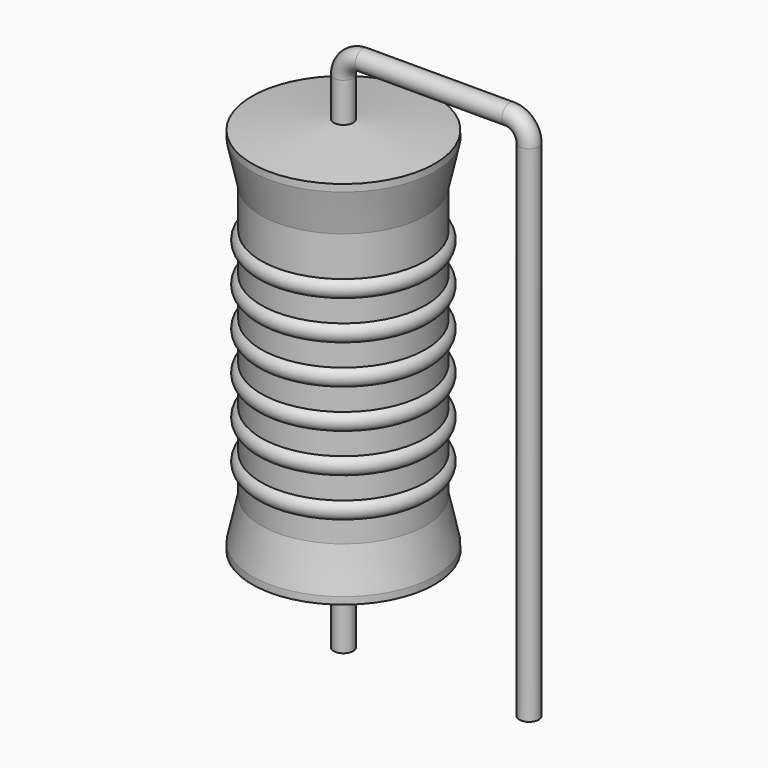
from build123d import *

# Parameters (mm, degrees)
SKETCH_R = 0.4


with BuildPart() as sweep_body:
    # Sweep: sweep along a path in Sketch001
    with BuildLine(Plane.XZ) as sweep_path:
        Line((0, -3), (0, 17.7))
        ThreePointArc((0, 17.7), (0.234318, 18.265689), (0.800011, 18.5))
        Line((0.800011, 18.5), (6.82, 18.5))
        ThreePointArc((6.82, 18.5), (7.385685, 18.265685), (7.62, 17.7))
        Line((7.62, 17.7), (7.62, -3))
    # Sketch → Sweep (sweep)
    with BuildSketch(Plane.XY.offset(-2)):
        Circle(SKETCH_R)
    sweep(path=sweep_path.line)


with BuildPart() as revolution:
    # Sketch002 → Revolution (revolve)
    with BuildSketch(Plane.XZ):
        Polygon((0, 0.1), (0, 16.1), (0.3, 16.1), (3.75, 15.7), (3.75, 15.4075), (3.375, 13.7), (3.375, 2.5), (3.75, 0.7925), (3.75, 0.5), (0.3, 0.1), align=None)
    revolve(axis=Axis((0, 0, 0), (0, 0, 1)))


with BuildPart() as revolution001:
    # Sketch003 → Revolution001 (revolve)
    with BuildSketch(Plane.XZ):
        with BuildLine():
            Line((3, 12.95), (3, 2.5))
            Line((3, 2.5), (3.225, 2.5))
            Line((3.225, 2.5), (3.225, 3.35))
            ThreePointArc((3.225, 3.35), (3.6, 3.725), (3.225, 4.1))
            Line((3.225, 4.1), (3.225, 4.95))
            ThreePointArc((3.225, 4.95), (3.6, 5.325), (3.225, 5.7))
            Line((3.225, 5.7), (3.225, 6.55))
            ThreePointArc((3.225, 6.55), (3.6, 6.925), (3.225, 7.3))
            Line((3.225, 7.3), (3.225, 8.15))
            ThreePointArc((3.225, 8.15), (3.6, 8.525), (3.225, 8.9))
            Line((3.225, 8.9), (3.225, 9.75))
            ThreePointArc((3.225, 9.75), (3.6, 10.125), (3.225, 10.5))
            Line((3.225, 10.5), (3.225, 11.35))
            ThreePointArc((3.225, 11.35), (3.6, 11.725), (3.225, 12.1))
            Line((3.225, 12.95), (3.225, 12.1))
            Line((3, 12.95), (3.225, 12.95))
        make_face()
    revolve(axis=Axis((0, 0, 0), (0, 0, 1)))


solid = Compound([sweep_body.part, revolution.part, revolution001.part])
